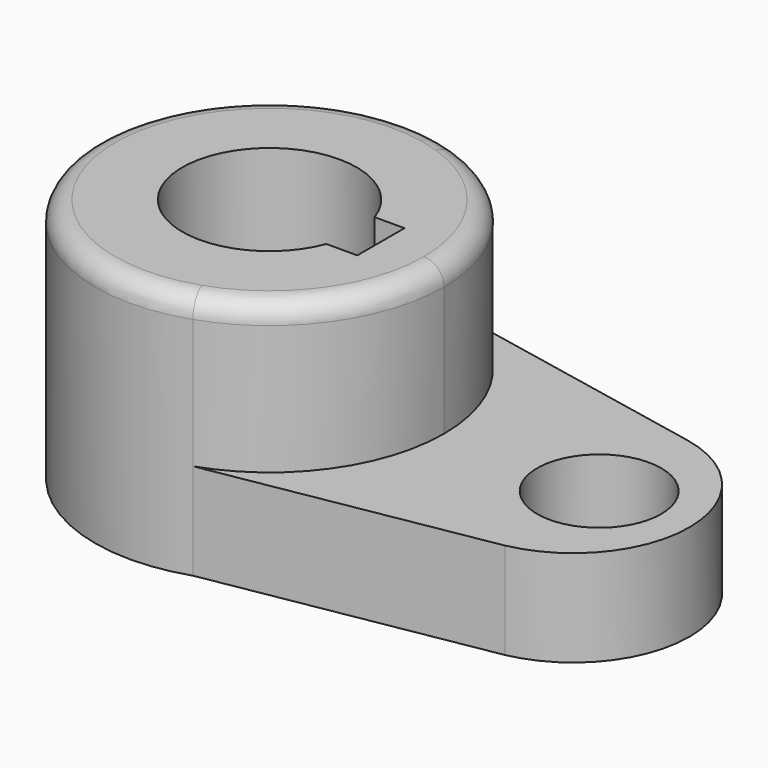
from build123d import *

# Parameters (mm, degrees)
F1_DEPTH = 40.2336
F0_R     = 10.16
F2_DEPTH = 15.7734
F3_R     = 3.302


with BuildPart() as f1:
    # F0 (on Top) → F1 (new body)
    with BuildSketch(Plane.XY):
        with BuildLine():
            ThreePointArc((-44.848745, -27.078443), (-30.766022, -16.669551), (-25.4, 0))
            ThreePointArc((-25.4, 0), (-30.766022, 16.669551), (-44.848745, 27.078443))
            ThreePointArc((-44.848745, 27.078443), (-82.55, 0), (-44.848745, -27.078443))
        make_face()
        with BuildLine():
            ThreePointArc((-40.611343, -5.054238), (-68.260442, 0.242495), (-40.4475, 4.597762))
            Line((-40.4475, 4.597762), (-35.555926, 4.597762))
            Line((-35.555926, 4.597762), (-35.555926, -5.054238))
            Line((-35.555926, -5.054238), (-40.611343, -5.054238))
        make_face(mode=Mode.SUBTRACT)
    extrude(amount=F1_DEPTH)

    # F0 (on Top) → F2 (join)
    with BuildSketch(Plane.XY):
        with BuildLine():
            ThreePointArc((-44.848745, 27.078443), (-30.766022, 16.669551), (-25.4, 0))
            ThreePointArc((-25.4, 0), (-30.766022, -16.669551), (-44.848745, -27.078443))
            Line((-44.848745, -27.078443), (0, -19.308112))
            ThreePointArc((0, -19.308112), (15.286951, -0.633478), (0, 18.041156))
            Line((0, 18.041156), (-44.848745, 27.078443))
        make_face()
        Circle(F0_R, mode=Mode.SUBTRACT)
    extrude(amount=F2_DEPTH)

    # F3
    f3_edges = [f1.edges().sort_by_distance(p)[0] for p in [
        (-63.101255, 27.078443, 40.2336),
    ]]
    fillet(f3_edges, radius=F3_R)


solid = f1.part
